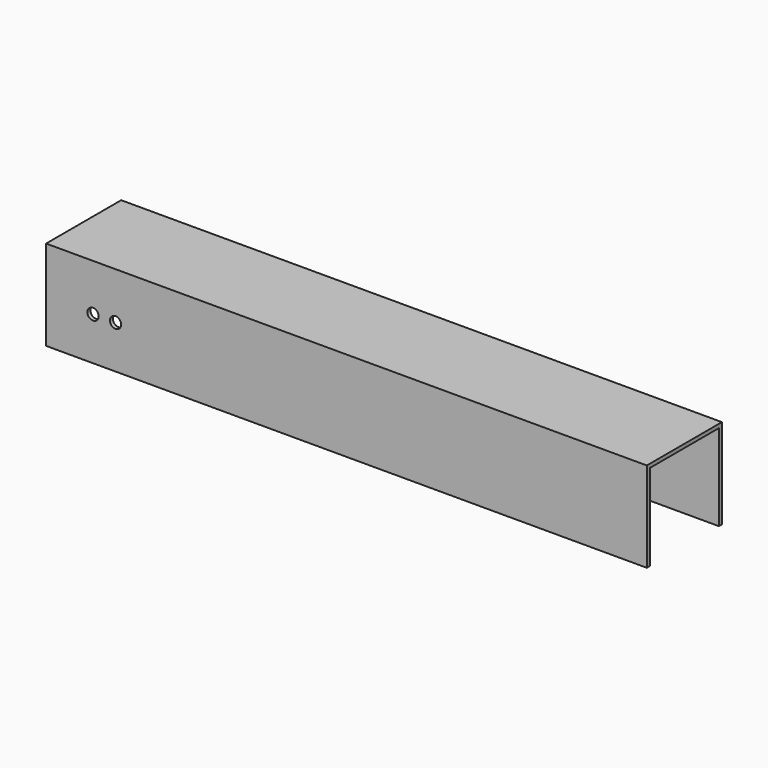
from build123d import *

# Parameters (mm, degrees)
F1_DEPTH = 203.2
F2_R     = 1.905
F3_DEPTH = 31.751


with BuildPart() as f1:
    # F0 (on Right) → F1 (new body)
    with BuildSketch(Plane.YZ):
        Polygon((15.875, -14.605), (15.875, 15.875), (-15.875, 15.875), (-15.875, -14.605), (-14.605, -14.605), (-14.605, 14.605), (14.605, 14.605), (14.605, -14.605), align=None)
    extrude(amount=F1_DEPTH)

    # F2 (on face) → F3 (cut, through all)
    with BuildSketch(Plane.XZ.offset(15.875)):
        with Locations((15.875, 0)):
            Circle(F2_R)
        with Locations((23.495, 0)):
            Circle(F2_R)
    extrude(amount=-F3_DEPTH, mode=Mode.SUBTRACT)


solid = f1.part
